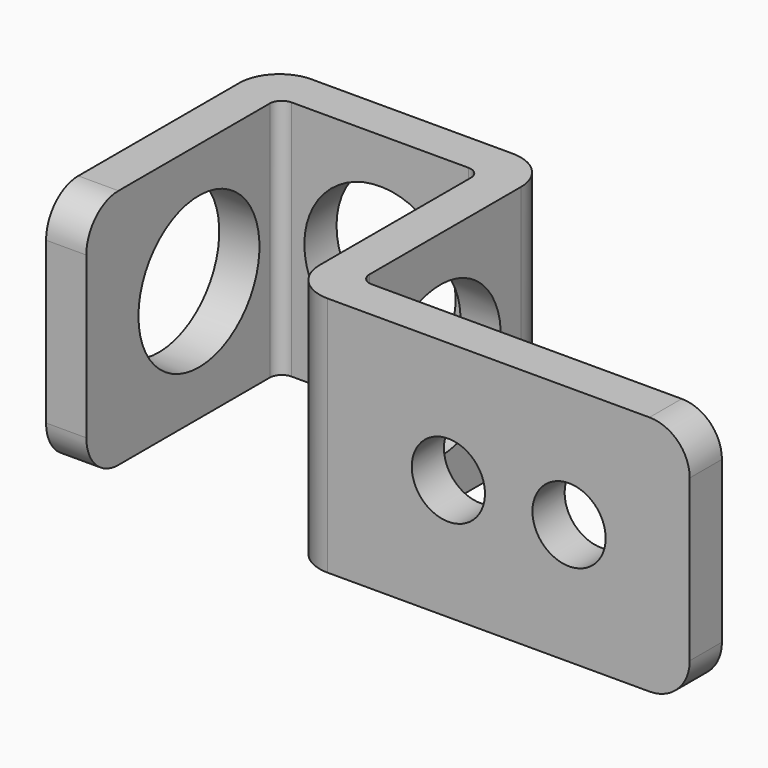
from build123d import *

# Parameters (mm, degrees)
F1_DEPTH = 3.81
F3_R     = 1.27
F4_R     = 0.381
F5_D     = 2.3114
F6_R     = 2.3876
F7_DEPTH = 25.4
F8_R     = 2.3876
F9_DEPTH = 25.4


with BuildPart() as f1:
    # F0 (on Top) → F1 (new body, symmetric)
    with BuildSketch(Plane.XY):
        Polygon((-8.89, 8.89), (-8.89, 0), (-7.62, 0), (-7.62, 7.62), (-1.27, 7.62), (-1.27, 0), (11.43, 0), (11.43, 1.27), (0, 1.27), (0, 8.89), align=None)
    extrude(amount=F1_DEPTH, both=True)

    # F3
    f3_edges = [f1.edges().sort_by_distance(p)[0] for p in [
        (11.43, 0.635, 3.81),
        (11.43, 0.635, -3.81),
        (-8.255, 0, 3.81),
        (-8.255, 0, -3.81),
        (-1.27, 0, 0),
        (0, 8.89, 0),
        (-8.89, 8.89, 0),
    ]]
    fillet(f3_edges, radius=F3_R)

    # F4
    f4_edges = [f1.edges().sort_by_distance(p)[0] for p in [
        (-7.62, 7.62, 0),
        (-1.27, 7.62, 0),
        (0, 1.27, 0),
    ]]
    fillet(f4_edges, radius=F4_R)

    # F5 (through all)
    with Locations(Plane.XZ):
        with Locations((7.62, 0), (3.81, 0)):
            Hole(F5_D / 2)

    # F6 (on face) → F7 (cut)
    with BuildSketch(Plane(origin=(-8.89, 0, 0), x_dir=(0, -1, 0), z_dir=(-1, 0, 0))):
        with Locations((-4.445, 0)):
            Circle(F6_R)
    extrude(amount=-F7_DEPTH, mode=Mode.SUBTRACT)

    # F8 (on face) → F9 (cut)
    with BuildSketch(Plane(origin=(0, 8.89, 0), x_dir=(-1, 0, 0), z_dir=(0, 1, 0))):
        with Locations((4.445, 0)):
            Circle(F8_R)
    extrude(amount=-F9_DEPTH, mode=Mode.SUBTRACT)


solid = f1.part
